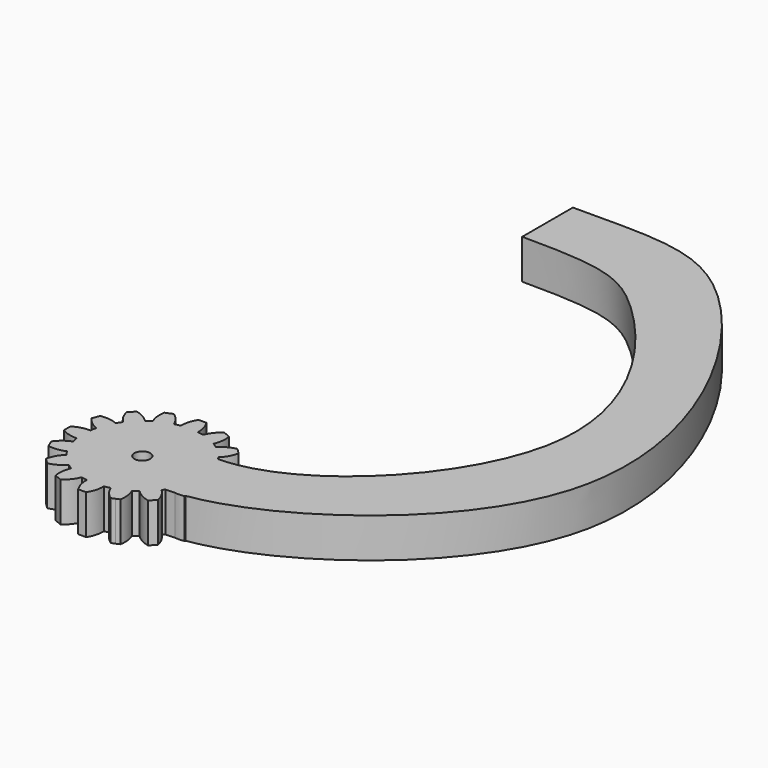
from build123d import *

# Parameters (mm, degrees)
F1_DEPTH = 5
F2_R     = 1
F3_DEPTH = 25
F5_DEPTH = 5


with BuildPart() as f1:
    # F0 (on Top) → F1 (new body)
    with BuildSketch(Plane.XY):
        with BuildLine():
            ThreePointArc((7.4206173165, -1.0883191822), (7.4801280027, -0.5456052265), (7.5, 0))
            ThreePointArc((7.5, 0), (7.4801280027, 0.5456052265), (7.4206173165, 1.0883191822))
            ThreePointArc((7.4206173165, 1.0883191822), (7.355889603, 1.4631774151), (7.2722381774, 1.8342714877))
            ThreePointArc((7.2722381774, 1.8342714877), (6.9290964938, 2.8701257427), (6.4392747372, 3.8452231222))
            ThreePointArc((6.4392747372, 3.8452231222), (6.2360220923, 4.1667767476), (6.0167266989, 4.4776109513))
            ThreePointArc((6.0167266989, 4.4776109513), (5.3033008589, 5.3033008589), (4.4776109513, 6.0167266989))
            ThreePointArc((4.4776109513, 6.0167266989), (4.1667767476, 6.2360220923), (3.8452231222, 6.4392747372))
            ThreePointArc((3.8452231222, 6.4392747372), (2.8701257427, 6.9290964938), (1.8342714877, 7.2722381774))
            ThreePointArc((1.8342714877, 7.2722381774), (1.4631774151, 7.355889603), (1.0883191822, 7.4206173165))
            ThreePointArc((1.0883191822, 7.4206173165), (0, 7.5), (-1.0883191822, 7.4206173165))
            ThreePointArc((-1.0883191822, 7.4206173165), (-1.4631774151, 7.355889603), (-1.8342714877, 7.2722381774))
            ThreePointArc((-1.8342714877, 7.2722381774), (-2.8701257427, 6.9290964938), (-3.8452231222, 6.4392747372))
            ThreePointArc((-3.8452231222, 6.4392747372), (-4.1667767476, 6.2360220923), (-4.4776109513, 6.0167266989))
            ThreePointArc((-4.4776109513, 6.0167266989), (-5.3033008589, 5.3033008589), (-6.0167266989, 4.4776109513))
            ThreePointArc((-6.0167266989, 4.4776109513), (-6.2360220923, 4.1667767476), (-6.4392747372, 3.8452231222))
            ThreePointArc((-6.4392747372, 3.8452231222), (-6.9290964938, 2.8701257427), (-7.2722381774, 1.8342714877))
            ThreePointArc((-7.2722381774, 1.8342714877), (-7.355889603, 1.4631774151), (-7.4206173165, 1.0883191822))
            ThreePointArc((-7.4206173165, 1.0883191822), (-7.5, 0), (-7.4206173165, -1.0883191822))
            ThreePointArc((-7.4206173165, -1.0883191822), (-7.355889603, -1.4631774151), (-7.2722381774, -1.8342714877))
            ThreePointArc((-7.2722381774, -1.8342714877), (-6.9290964938, -2.8701257427), (-6.4392747372, -3.8452231222))
            ThreePointArc((-6.4392747372, -3.8452231222), (-6.2360220923, -4.1667767476), (-6.0167266989, -4.4776109513))
            ThreePointArc((-6.0167266989, -4.4776109513), (-5.3033008589, -5.3033008589), (-4.4776109513, -6.0167266989))
            ThreePointArc((-4.4776109513, -6.0167266989), (-4.1667767476, -6.2360220923), (-3.8452231222, -6.4392747372))
            ThreePointArc((-3.8452231222, -6.4392747372), (-2.8701257427, -6.9290964938), (-1.8342714877, -7.2722381774))
            ThreePointArc((-1.8342714877, -7.2722381774), (-1.4631774151, -7.355889603), (-1.0883191822, -7.4206173165))
            ThreePointArc((-1.0883191822, -7.4206173165), (0, -7.5), (1.0883191822, -7.4206173165))
            ThreePointArc((1.0883191822, -7.4206173165), (1.4631774151, -7.355889603), (1.8342714877, -7.2722381774))
            ThreePointArc((1.8342714877, -7.2722381774), (2.8701257427, -6.9290964938), (3.8452231222, -6.4392747372))
            ThreePointArc((3.8452231222, -6.4392747372), (4.1667767476, -6.2360220923), (4.4776109513, -6.0167266989))
            ThreePointArc((4.4776109513, -6.0167266989), (5.3033008589, -5.3033008589), (6.0167266989, -4.4776109513))
            ThreePointArc((6.0167266989, -4.4776109513), (6.2360220923, -4.1667767476), (6.4392747372, -3.8452231222))
            ThreePointArc((6.4392747372, -3.8452231222), (6.9290964938, -2.8701257427), (7.2722381774, -1.8342714877))
            ThreePointArc((7.2722381774, -1.8342714877), (7.355889603, -1.4631774151), (7.4206173165, -1.0883191822))
        make_face()
        with BuildLine():
            ThreePointArc((7.4206173165, 1.0883191822), (7.4801280027, 0.5456052265), (7.5, 0))
            ThreePointArc((7.5, 0), (7.4801280027, -0.5456052265), (7.4206173165, -1.0883191822))
            ThreePointArc((7.4206173165, -1.0883191822), (8.5043518229, -0.9498278009), (9.5, -0.5))
            Line((9.5, -0.5), (9.5, 0))
            Line((9.5, 0), (9.5, 0.5))
            ThreePointArc((9.5, 0.5), (8.5043518229, 0.9498278009), (7.4206173165, 1.0883191822))
        make_face()
        with BuildLine():
            ThreePointArc((6.4392747372, 3.8452231222), (6.9290964938, 2.8701257427), (7.2722381774, 1.8342714877))
            ThreePointArc((7.2722381774, 1.8342714877), (8.2204799494, 2.376948081), (8.968197275, 3.1735528412))
            Line((8.968197275, 3.1735528412), (8.7768555589, 3.6354926075))
            Line((8.7768555589, 3.6354926075), (8.5855138427, 4.0974323737))
            ThreePointArc((8.5855138427, 4.0974323737), (7.4935132234, 4.1320010103), (6.4392747372, 3.8452231222))
        make_face()
        with BuildLine():
            ThreePointArc((8.968197275, -3.1735528412), (8.2204799494, -2.376948081), (7.2722381774, -1.8342714877))
            ThreePointArc((7.2722381774, -1.8342714877), (6.9290964938, -2.8701257427), (6.4392747372, -3.8452231222))
            ThreePointArc((6.4392747372, -3.8452231222), (7.4935132234, -4.1320010103), (8.5855138427, -4.0974323737))
            Line((8.5855138427, -4.0974323737), (8.7768555589, -3.6354926075))
            Line((8.7768555589, -3.6354926075), (8.968197275, -3.1735528412))
        make_face()
        with BuildLine():
            ThreePointArc((4.4776109513, 6.0167266989), (5.3033008589, 5.3033008589), (6.0167266989, 4.4776109513))
            ThreePointArc((6.0167266989, 4.4776109513), (6.6851145225, 5.3418551646), (7.0710678119, 6.3639610307))
            Line((7.0710678119, 6.3639610307), (6.7175144213, 6.7175144213))
            Line((6.7175144213, 6.7175144213), (6.3639610307, 7.0710678119))
            ThreePointArc((6.3639610307, 7.0710678119), (5.3418551646, 6.6851145225), (4.4776109513, 6.0167266989))
        make_face()
        with BuildLine():
            ThreePointArc((7.0710678119, -6.3639610307), (6.6851145225, -5.3418551646), (6.0167266989, -4.4776109513))
            ThreePointArc((6.0167266989, -4.4776109513), (5.3033008589, -5.3033008589), (4.4776109513, -6.0167266989))
            ThreePointArc((4.4776109513, -6.0167266989), (5.3418551646, -6.6851145225), (6.3639610307, -7.0710678119))
            Line((6.3639610307, -7.0710678119), (6.7175144213, -6.7175144213))
            Line((6.7175144213, -6.7175144213), (7.0710678119, -6.3639610307))
        make_face()
        with BuildLine():
            ThreePointArc((1.8342714877, 7.2722381774), (2.8701257427, 6.9290964938), (3.8452231222, 6.4392747372))
            ThreePointArc((3.8452231222, 6.4392747372), (4.1320010103, 7.4935132234), (4.0974323737, 8.5855138427))
            Line((4.0974323737, 8.5855138427), (3.6354926075, 8.7768555589))
            Line((3.6354926075, 8.7768555589), (3.1735528412, 8.968197275))
            ThreePointArc((3.1735528412, 8.968197275), (2.376948081, 8.2204799494), (1.8342714877, 7.2722381774))
        make_face()
        with BuildLine():
            ThreePointArc((4.0974323737, -8.5855138427), (4.1320010103, -7.4935132234), (3.8452231222, -6.4392747372))
            ThreePointArc((3.8452231222, -6.4392747372), (2.8701257427, -6.9290964938), (1.8342714877, -7.2722381774))
            ThreePointArc((1.8342714877, -7.2722381774), (2.376948081, -8.2204799494), (3.1735528412, -8.968197275))
            Line((3.1735528412, -8.968197275), (3.6354926075, -8.7768555589))
            Line((3.6354926075, -8.7768555589), (4.0974323737, -8.5855138427))
        make_face()
        with BuildLine():
            ThreePointArc((-1.0883191822, 7.4206173165), (0, 7.5), (1.0883191822, 7.4206173165))
            ThreePointArc((1.0883191822, 7.4206173165), (0.9498278009, 8.5043518229), (0.5, 9.5))
            Line((0.5, 9.5), (0, 9.5))
            Line((0, 9.5), (-0.5, 9.5))
            ThreePointArc((-0.5, 9.5), (-0.9498278009, 8.5043518229), (-1.0883191822, 7.4206173165))
        make_face()
        with BuildLine():
            ThreePointArc((0.5, -9.5), (0.9498278009, -8.5043518229), (1.0883191822, -7.4206173165))
            ThreePointArc((1.0883191822, -7.4206173165), (0, -7.5), (-1.0883191822, -7.4206173165))
            ThreePointArc((-1.0883191822, -7.4206173165), (-0.9498278009, -8.5043518229), (-0.5, -9.5))
            Line((-0.5, -9.5), (0, -9.5))
            Line((0, -9.5), (0.5, -9.5))
        make_face()
        with BuildLine():
            ThreePointArc((-3.8452231222, 6.4392747372), (-2.8701257427, 6.9290964938), (-1.8342714877, 7.2722381774))
            ThreePointArc((-1.8342714877, 7.2722381774), (-2.376948081, 8.2204799494), (-3.1735528412, 8.968197275))
            Line((-3.1735528412, 8.968197275), (-3.6354926075, 8.7768555589))
            Line((-3.6354926075, 8.7768555589), (-4.0974323737, 8.5855138427))
            ThreePointArc((-4.0974323737, 8.5855138427), (-4.1320010103, 7.4935132234), (-3.8452231222, 6.4392747372))
        make_face()
        with BuildLine():
            ThreePointArc((-3.1735528412, -8.968197275), (-2.376948081, -8.2204799494), (-1.8342714877, -7.2722381774))
            ThreePointArc((-1.8342714877, -7.2722381774), (-2.8701257427, -6.9290964938), (-3.8452231222, -6.4392747372))
            ThreePointArc((-3.8452231222, -6.4392747372), (-4.1320010103, -7.4935132234), (-4.0974323737, -8.5855138427))
            Line((-4.0974323737, -8.5855138427), (-3.6354926075, -8.7768555589))
            Line((-3.6354926075, -8.7768555589), (-3.1735528412, -8.968197275))
        make_face()
        with BuildLine():
            ThreePointArc((-6.0167266989, 4.4776109513), (-5.3033008589, 5.3033008589), (-4.4776109513, 6.0167266989))
            ThreePointArc((-4.4776109513, 6.0167266989), (-5.3418551646, 6.6851145225), (-6.3639610307, 7.0710678119))
            Line((-6.3639610307, 7.0710678119), (-6.7175144213, 6.7175144213))
            Line((-6.7175144213, 6.7175144213), (-7.0710678119, 6.3639610307))
            ThreePointArc((-7.0710678119, 6.3639610307), (-6.6851145225, 5.3418551646), (-6.0167266989, 4.4776109513))
        make_face()
        with BuildLine():
            ThreePointArc((-6.3639610307, -7.0710678119), (-5.3418551646, -6.6851145225), (-4.4776109513, -6.0167266989))
            ThreePointArc((-4.4776109513, -6.0167266989), (-5.3033008589, -5.3033008589), (-6.0167266989, -4.4776109513))
            ThreePointArc((-6.0167266989, -4.4776109513), (-6.6851145225, -5.3418551646), (-7.0710678119, -6.3639610307))
            Line((-7.0710678119, -6.3639610307), (-6.7175144213, -6.7175144213))
            Line((-6.7175144213, -6.7175144213), (-6.3639610307, -7.0710678119))
        make_face()
        with BuildLine():
            ThreePointArc((-7.2722381774, 1.8342714877), (-6.9290964938, 2.8701257427), (-6.4392747372, 3.8452231222))
            ThreePointArc((-6.4392747372, 3.8452231222), (-7.4935132234, 4.1320010103), (-8.5855138427, 4.0974323737))
            Line((-8.5855138427, 4.0974323737), (-8.7768555589, 3.6354926075))
            Line((-8.7768555589, 3.6354926075), (-8.968197275, 3.1735528412))
            ThreePointArc((-8.968197275, 3.1735528412), (-8.2204799494, 2.376948081), (-7.2722381774, 1.8342714877))
        make_face()
        with BuildLine():
            ThreePointArc((-8.5855138427, -4.0974323737), (-7.4935132234, -4.1320010103), (-6.4392747372, -3.8452231222))
            ThreePointArc((-6.4392747372, -3.8452231222), (-6.9290964938, -2.8701257427), (-7.2722381774, -1.8342714877))
            ThreePointArc((-7.2722381774, -1.8342714877), (-8.2204799494, -2.376948081), (-8.968197275, -3.1735528412))
            Line((-8.968197275, -3.1735528412), (-8.7768555589, -3.6354926075))
            Line((-8.7768555589, -3.6354926075), (-8.5855138427, -4.0974323737))
        make_face()
        with BuildLine():
            ThreePointArc((-7.4206173165, -1.0883191822), (-7.5, 0), (-7.4206173165, 1.0883191822))
            ThreePointArc((-7.4206173165, 1.0883191822), (-8.5043518229, 0.9498278009), (-9.5, 0.5))
            Line((-9.5, 0.5), (-9.5, 0))
            Line((-9.5, 0), (-9.5, -0.5))
            ThreePointArc((-9.5, -0.5), (-8.5043518229, -0.9498278009), (-7.4206173165, -1.0883191822))
        make_face()
    extrude(amount=F1_DEPTH)

    # F2 (on face) → F3 (cut)
    with BuildSketch(Plane.XY.offset(5)):
        Circle(F2_R)
    extrude(amount=-F3_DEPTH, mode=Mode.SUBTRACT)

    # F4 (on Top) → F5 (join, through all)
    with BuildSketch(Plane.XY):
        with BuildLine():
            add(Edge.make_bspline(
                [(0, 68), (10, 68), (22.8391780148, 69.3882574213), (52.3463292726, 18.473927858), (16.2360203979, -4.1667756155), (6.2360203979, -4.1667756155)],
                knots=[0, 0, 0, 0, 0.2646192357, 0.6417248094, 1, 1, 1, 1], degree=3))
            Line((0, 68), (0, 60))
            add(Edge.make_bspline(
                [(0, 60), (10, 60), (16.6424524567, 58.4640557697), (40.1937230285, 27.9683773295), (16.2360220923, 4.1667767476), (6.2360220923, 4.1667767476)],
                knots=[0, 0, 0, 0, 0.273072818, 0.6250541396, 1, 1, 1, 1], degree=3))
            Line((6.2360220923, 4.1667767476), (6.2360203979, -4.1667756155))
        make_face()
    extrude(amount=F5_DEPTH)


solid = f1.part
